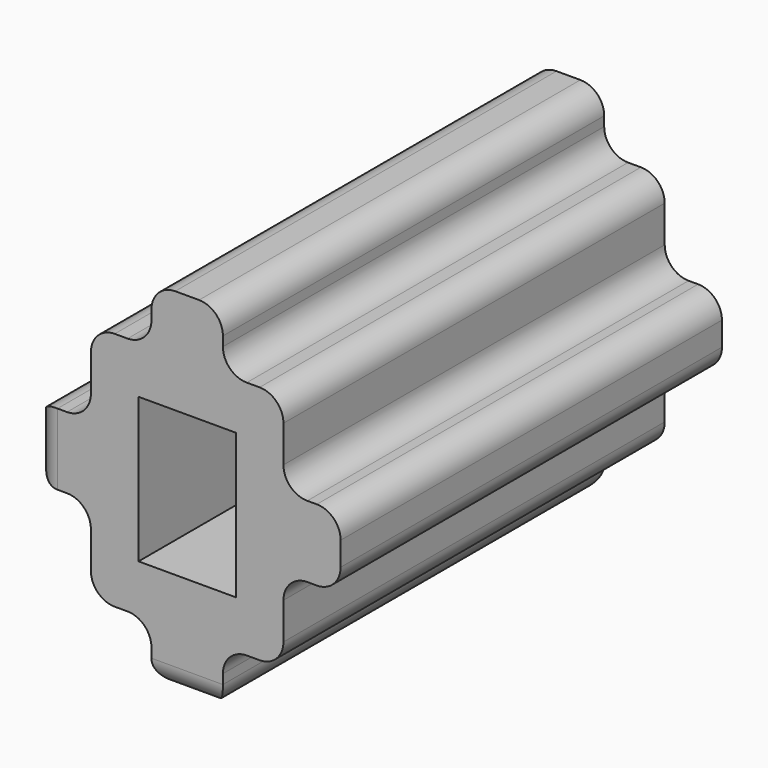
from build123d import *

# Parameters (mm, degrees)
F0_W     = 15
F0_H     = 10
F0_W_2   = 10
F0_H_2   = 15
F0_H_3   = 12
F0_W_3   = 12
F1_DEPTH = 100
F2_R     = 5


with BuildPart() as f1:
    # F0 (on Front) → F1 (new body)
    with BuildSketch(Plane.XZ):
        Polygon((10.2, -7.5), (10.2, -15.2), (7.5, -15.2), (7.5, -25.2), (20.2, -25.2), (20.2, -7.5), align=None)
        with Locations((0, -20.2)):
            Rectangle(F0_W, F0_H)
        with Locations((15.2, 0)):
            Rectangle(F0_W_2, F0_H_2)
        Polygon((-7.5, -25.2), (-7.5, -15.2), (-10.2, -15.2), (-10.2, -7.5), (-20.2, -7.5), (-20.2, -25.2), align=None)
        with Locations((0, -31.2)):
            Rectangle(F0_W, F0_H_3)
        Polygon((10.2, 15.2), (10.2, 7.5), (20.2, 7.5), (20.2, 25.2), (7.5, 25.2), (7.5, 15.2), align=None)
        with Locations((26.2, 0)):
            Rectangle(F0_W_3, F0_H_2)
        with Locations((-15.2, 0)):
            Rectangle(F0_W_2, F0_H_2)
        with Locations((0, 20.2)):
            Rectangle(F0_W, F0_H)
        Polygon((-20.2, 7.5), (-10.2, 7.5), (-10.2, 15.2), (-7.5, 15.2), (-7.5, 25.2), (-20.2, 25.2), align=None)
        with Locations((-26.2, 0)):
            Rectangle(F0_W_3, F0_H_2)
        with Locations((0, 31.2)):
            Rectangle(F0_W, F0_H_3)
    extrude(amount=F1_DEPTH)

    # F2
    f2_edges = [f1.edges().sort_by_distance(p)[0] for p in [
        (-20.2, -50, 25.2),
        (20.2, -50, 25.2),
        (20.2, -50, -25.2),
        (-20.2, -50, -25.2),
        (32.2, -50, 7.5),
        (32.2, -50, -7.5),
        (20.2, -50, 7.5),
        (20.2, -50, -7.5),
        (7.5, -50, 25.2),
        (7.5, -50, 37.2),
        (-7.5, -50, 37.2),
        (-7.5, -50, 25.2),
        (-20.2, -50, 7.5),
        (-32.2, -50, 7.5),
        (-32.2, -50, -7.5),
        (-32.2, 0, 0),
        (-32.2, -100, 0),
        (-20.2, -50, -7.5),
        (-7.5, -50, -25.2),
        (-7.5, -50, -37.2),
        (7.5, -50, -37.2),
        (0, 0, -37.2),
        (0, -100, -37.2),
        (7.5, -50, -25.2),
    ]]
    fillet(f2_edges, radius=F2_R)


solid = f1.part
